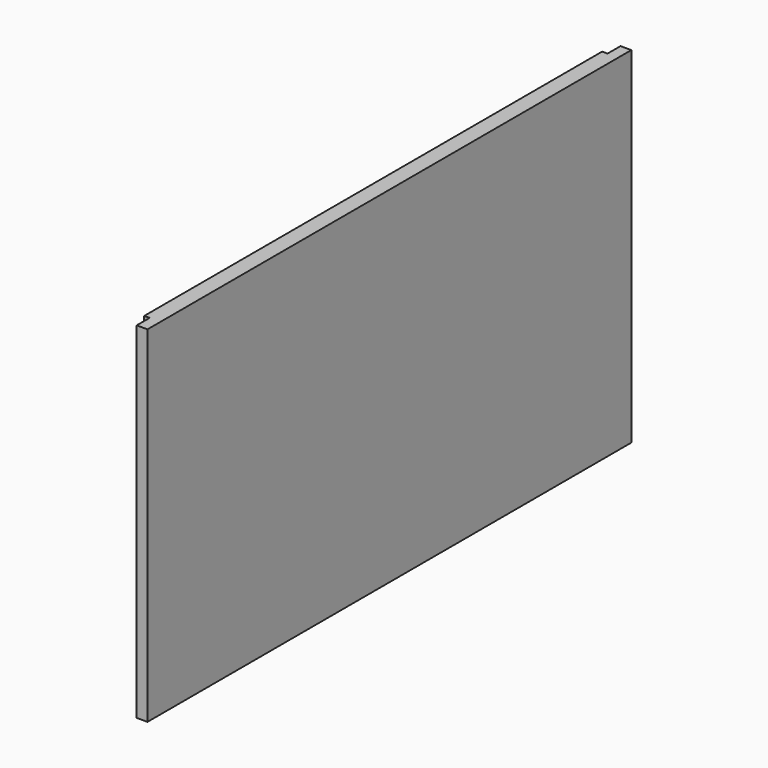
from build123d import *

# Parameters (mm, degrees)
F0_W     = 711.2
F0_H     = 406.4
F1_DEPTH = 19.05
F2_W     = 19.05
F2_H     = 19.05
F2_W_2   = 673.1
F2_H_2   = 374.65
F2_H_3   = 12.7
F3_DEPTH = 6.35


with BuildPart() as f1:
    # F0 (on Right) → F1 (new body)
    with BuildSketch(Plane.YZ):
        Rectangle(F0_W, F0_H)
    extrude(amount=F1_DEPTH)

    # F2 (on face) → F3 (cut)
    with BuildSketch(Plane(origin=(0, 0, 0), x_dir=(0, -1, 0), z_dir=(-1, 0, 0))):
        with Locations((-346.075, -180.975)):
            Rectangle(F2_W, F2_H)
        with Locations((0, -180.975)):
            Rectangle(F2_W_2, F2_H)
        with Locations((346.075, -180.975)):
            Rectangle(F2_W, F2_H)
        with Locations((-346.075, 15.875)):
            Rectangle(F2_W, F2_H_2)
        with Locations((-346.075, -196.85)):
            Rectangle(F2_W, F2_H_3)
        with Locations((346.075, 15.875)):
            Rectangle(F2_W, F2_H_2)
        with Locations((346.075, -196.85)):
            Rectangle(F2_W, F2_H_3)
    extrude(amount=-F3_DEPTH, mode=Mode.SUBTRACT)


solid = f1.part
